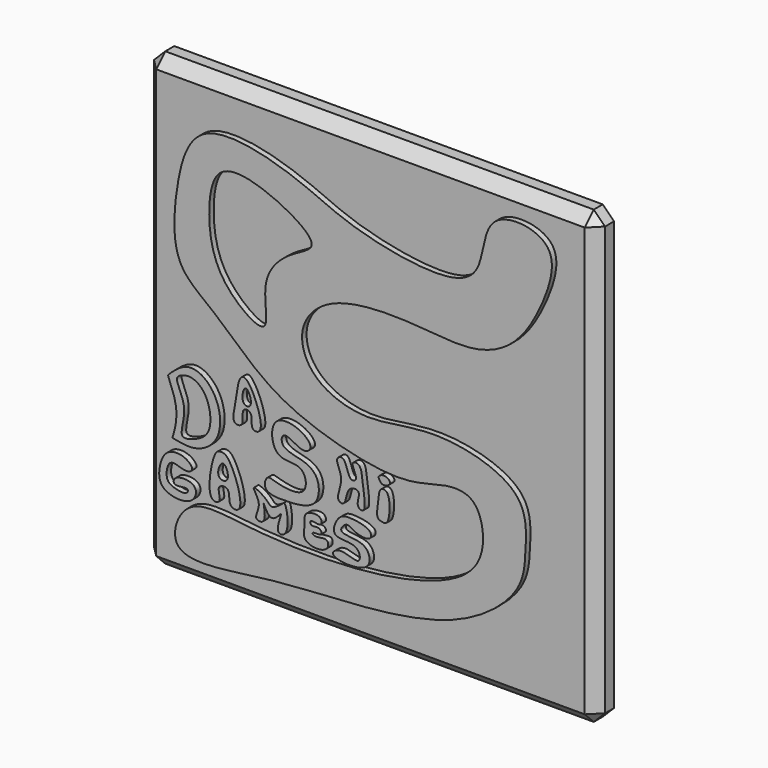
from build123d import *

# Parameters (mm, degrees)
F0_W     = 200
F0_H     = 200
F0_W_2   = 190
F0_H_2   = 190
F1_DEPTH = 10
F2_SIZE  = 5
F4_DEPTH = 2.5


with BuildPart() as f1:
    # F0 (on Front) → F1 (new body)
    with BuildSketch(Plane.XZ):
        Rectangle(F0_W, F0_H)
        Rectangle(F0_W_2, F0_H_2, mode=Mode.SUBTRACT)
        Rectangle(F0_W_2, F0_H_2)
    extrude(amount=F1_DEPTH)

    # F2
    f2_edges = [f1.edges().sort_by_distance(p)[0] for p in [
        (-100, -10, 0),
        (0, -10, 100),
        (100, -10, 0),
        (0, -10, -100),
        (-100, -5, -100),
        (100, -5, -100),
        (100, -5, 100),
        (-100, -5, 100),
    ]]
    chamfer(f2_edges, length=F2_SIZE)

    # F3 (on face) → F4 (join)
    with BuildSketch(Plane.XZ.offset(10)):
        with BuildLine():
            add(Edge.make_bspline(
                [(-87.7614319324, -21.0537072271), (-87.825366867, -21.6199004584), (-81.8395387198, -32.7272155676), (-85.5848640599, -44.1312301135), (-85.9333076917, -44.9312667765), (-84.7148641289, -44.9653135893), (-75.1910001989, -47.4703439431), (-63.0247091743, -38.8020907721), (-65.2624117914, -20.3607639388), (-78.6053829774, -11.6061829799), (-87.0265766494, -20.2614177394), (-87.6610659296, -20.8712068369), (-87.6987156854, -20.9829346897), (-87.7557195629, -21.0031197822), (-87.7614319324, -21.0537072271)],
                knots=[0, 0, 0, 0, 0.1274675783, 0.2544059, 0.2779604132, 0.3095727952, 0.4194339848, 0.5519522976, 0.7007810112, 0.8333677429, 0.9487729847, 0.9784777135, 0.9886112042, 1, 1, 1, 1], degree=3))
        make_face()
        with BuildLine():
            add(Edge.make_bspline(
                [(-83.79676193, -21.4331950992), (-83.6684224556, -23.4253166092), (-78.1953647391, -31.195664231), (-83.9735066611, -44.4720690845), (-75.5211441931, -42.3273411788), (-67.8338266372, -37.9808761763), (-69.4166090973, -23.2386340273), (-77.0527862533, -17.5861479519), (-82.6396759257, -19.2203775392), (-83.8555774438, -20.5202441093), (-83.79676193, -21.4331950992)],
                knots=[0, 0, 0, 0, 0.1486179544, 0.2987722885, 0.4020002725, 0.5330267689, 0.6967386952, 0.8296032871, 0.9318912486, 1, 1, 1, 1], degree=3))
        make_face(mode=Mode.SUBTRACT)
        with BuildLine():
            add(Edge.make_bspline(
                [(-58.199133724, -29.8489369452), (-59.5593396713, -28.4521991908), (-57.143484187, -20.4384711009), (-56.7517995236, -11.6466704735), (-51.8015387198, -9.4188366419), (-43.3266446496, -30.7663964727), (-51.8680821117, -30.5545542125), (-49.566134085, -23.2141041072), (-55.8885223475, -22.6479617351), (-53.422988153, -30.4747553293), (-57.4013549336, -30.6681421239), (-58.199133724, -29.8489369452)],
                knots=[0, 0, 0, 0, 0.1366215896, 0.272630827, 0.3466623213, 0.5423522852, 0.6237996356, 0.7315657708, 0.8104871317, 0.9198696295, 1, 1, 1, 1], degree=3))
        make_face()
        with BuildLine():
            add(Edge.make_bspline(
                [(-54.2397648096, -20.9697652608), (-53.4626981955, -22.147776335), (-49.2688011133, -21.8613744597), (-53.7237021536, -10.7816867402), (-55.3365601206, -19.3070544982), (-54.2397648096, -20.9697652608)],
                knots=[0, 0, 0, 0, 0.2607792242, 0.6319216074, 1, 1, 1, 1], degree=3))
        make_face(mode=Mode.SUBTRACT)
        with BuildLine():
            add(Edge.make_bspline(
                [(-28.0233919621, -30.7851210237), (-26.1712514428, -31.056990298), (-22.7888205804, -28.6610829957), (-29.3225020472, -22.1895574744), (-43.1307127951, -20.806501756), (-41.2858215794, -39.6817735881), (-27.0816917314, -35.2878862445), (-25.1554480643, -50.419516874), (-40.4767809233, -47.3430968664), (-44.0121294885, -45.6120420154), (-46.2644313682, -53.0312190933), (-33.9570130578, -53.4487334928), (-20.9809644736, -51.8615581708), (-20.214524418, -39.5762787551), (-27.0347134532, -34.36148365), (-38.27581389, -33.5444471775), (-36.9096884637, -24.9695712614), (-30.7748103235, -30.381249878), (-28.0233919621, -30.7851210237)],
                knots=[0, 0, 0, 0, 0.0436275764, 0.1029954792, 0.1742410715, 0.2497515044, 0.320909976, 0.384119474, 0.4614634703, 0.5015157689, 0.5472301912, 0.6172278115, 0.6940123095, 0.760568132, 0.823188482, 0.8918653033, 0.9351897366, 1, 1, 1, 1], degree=3))
        make_face()
        with BuildLine():
            add(Edge.make_bspline(
                [(-12.6997567713, -29.2626786977), (-13.2587052462, -30.8364357648), (-8.9024048512, -36.3119608743), (-14.1408112845, -45.2150035694), (-8.552305813, -46.9246168636), (-9.0142808685, -38.2661094361), (-1.360625427, -38.078044797), (-5.0584550028, -44.8555516467), (0.5387553008, -47.2382138088), (-1.5803399109, -35.6653284247), (-1.9652312398, -27.7009110242), (-7.619524522, -28.2154286509), (-2.7982862253, -34.7523456896), (-7.9818272446, -36.541410088), (-8.8518954537, -26.7926691947), (-12.361121479, -28.3092282306), (-12.6997567713, -29.2626786977)],
                knots=[0, 0, 0, 0, 0.0859368209, 0.1790755251, 0.2288517422, 0.3111177758, 0.3746067004, 0.4482352669, 0.4989681736, 0.5979271266, 0.6863540927, 0.7360683906, 0.8121082493, 0.8606499513, 0.9479357369, 1, 1, 1, 1], degree=3))
        make_face()
        with BuildLine():
            add(Edge.make_bspline(
                [(5.4318304174, -39.8916490376), (5.1444085959, -42.4332071529), (4.2430060344, -46.9743824145), (7.3158321025, -47.444074076), (10.4965170085, -48.0417395906), (11.1872238426, -34.3907245409), (5.7436351006, -34.1597597154), (5.6874344181, -37.6314433956), (5.4318304174, -39.8916490376)],
                knots=[0, 0, 0, 0, 0.199652483, 0.315913112, 0.4295832431, 0.6918754953, 0.8224492031, 1, 1, 1, 1], degree=3))
        make_face()
        with BuildLine():
            add(Edge.make_bspline(
                [(6.3121393323, -31.885176897), (6.6650133551, -32.3588980948), (7.3528973302, -33.2934385123), (12.0873990584, -31.6962501206), (8.6316569008, -28.319671165), (4.8999083041, -30.0008583599), (5.9414845265, -31.3875856117), (6.3121393323, -31.885176897)],
                knots=[0, 0, 0, 0, 0.1595277996, 0.3906600755, 0.6122044764, 0.8324338383, 1, 1, 1, 1], degree=3))
        make_face()
        with BuildLine():
            add(Edge.make_bspline(
                [(-20.4151626676, -54.6906031668), (-21.7973301659, -53.5421990575), (-28.0258980206, -54.399360114), (-26.5313879097, -59.2196269463), (-29.2477881462, -67.1595570496), (-16.6479552712, -68.1209390786), (-16.2941260065, -60.8675018079), (-22.7638739303, -63.5675954209), (-24.4451188587, -60.9402273901), (-18.5819526126, -62.1152946619), (-20.6741579052, -58.0382280307), (-24.5411319121, -59.7975620674), (-25.1068750832, -56.2688278574), (-19.4557722471, -58.7733673811), (-19.4946861096, -55.4554012562), (-20.4151626676, -54.6906031668)],
                knots=[0, 0, 0, 0, 0.0966296457, 0.1760666212, 0.2755190731, 0.3924194103, 0.4671354236, 0.5586142265, 0.601487031, 0.677158372, 0.7358609328, 0.8085231958, 0.8560005038, 0.9356479415, 1, 1, 1, 1], degree=3))
        make_face()
        with BuildLine():
            add(Edge.make_bspline(
                [(-5.0536016934, -55.1206320524), (-2.9944234587, -56.0999515721), (2.1242651912, -57.0242562507), (2.9102603087, -51.8693935502), (-7.1582495972, -50.0871751341), (-12.4641940027, -50.9615368949), (-16.5526088087, -61.6942127811), (-3.1050978598, -58.6924184751), (-1.7957411156, -68.7949775391), (-11.1465762949, -62.8858228329), (-18.2615049442, -68.9130504822), (3.3717432602, -70.4264587104), (1.1154352929, -58.2200635568), (-7.1968751693, -58.2148211971), (-12.3151994564, -57.0086292464), (-8.4973222064, -52.4092922106), (-6.6466938841, -54.3629772497), (-5.0536016934, -55.1206320524)],
                knots=[0, 0, 0, 0, 0.0686811006, 0.1123417857, 0.1925412831, 0.2560235456, 0.3261269556, 0.4087750727, 0.4674372728, 0.5441354359, 0.5971665771, 0.6988040637, 0.7704294119, 0.8457543277, 0.8967675089, 0.946864568, 1, 1, 1, 1], degree=3))
        make_face()
        with BuildLine():
            add(Edge.make_bspline(
                [(-48.5533066094, -64.2018988729), (-49.2786488761, -63.0076020631), (-45.3287227709, -58.2036592627), (-52.5141678918, -50.5272969439), (-43.7135962891, -55.0111090446), (-42.1549755706, -58.6550294669), (-37.2407779426, -55.0462550529), (-35.4827120682, -53.0408474692), (-33.1901231657, -66.8912260865), (-41.2030035708, -67.5123265254), (-35.4190393371, -54.974743423), (-42.3972610943, -65.4633468977), (-46.6914977415, -52.9086141647), (-43.3212009824, -65.5846965335), (-48.0311400116, -65.0616611266), (-48.5533066094, -64.2018988729)],
                knots=[0, 0, 0, 0, 0.0848405406, 0.1671579058, 0.2495795549, 0.3135721457, 0.3905511386, 0.4280981047, 0.5420322583, 0.6039447143, 0.6947395112, 0.7711600666, 0.8514921914, 0.9389241487, 1, 1, 1, 1], degree=3))
        make_face()
        with BuildLine():
            add(Edge.make_bspline(
                [(-68.3279186487, -62.7706646919), (-67.3197421085, -64.0514746982), (-63.1927929698, -63.4018931912), (-67.052299195, -56.5185058491), (-59.580347003, -55.8030714061), (-61.7066657457, -63.6066388934), (-52.4825261661, -64.9109692014), (-60.0950918592, -43.2546686343), (-64.6626428375, -43.255715409), (-67.8227486214, -44.0331652459), (-70.6606480902, -59.8071130801), (-68.3279186487, -62.7706646919)],
                knots=[0, 0, 0, 0, 0.0810484721, 0.1832164519, 0.2687490479, 0.3765347937, 0.4627302784, 0.6549391089, 0.7395819849, 0.812469196, 1, 1, 1, 1], degree=3))
        make_face()
        with BuildLine():
            add(Edge.make_bspline(
                [(-65.2498304844, -53.0961118639), (-64.5305167537, -54.5035860455), (-59.5107581504, -54.7682348828), (-63.2360227568, -43.6617361602), (-66.1541075635, -51.3267216969), (-65.2498304844, -53.0961118639)],
                knots=[0, 0, 0, 0, 0.2833399368, 0.6438024195, 1, 1, 1, 1], degree=3))
        make_face(mode=Mode.SUBTRACT)
        with BuildLine():
            add(Edge.make_bspline(
                [(-80.0184980035, -55.7330660522), (-78.5102524717, -55.8498411855), (-75.8353788961, -54.5917705515), (-79.9031276719, -50.0366974323), (-88.6586867378, -49.5532662217), (-92.0646795401, -58.0986895638), (-91.6720303039, -67.547184484), (-76.4973524524, -69.3057400291), (-73.7425011892, -58.8531565777), (-85.3402010781, -58.681202116), (-85.583862337, -64.0558372443), (-78.5176433561, -61.4884822483), (-79.1865589987, -65.4817229587), (-86.5784561304, -64.0515824274), (-88.9884660324, -61.136826993), (-87.551894747, -52.4251638545), (-82.1824824153, -55.5655206739), (-80.0184980035, -55.7330660522)],
                knots=[0, 0, 0, 0, 0.0498776126, 0.1083952715, 0.1852313545, 0.2648962519, 0.3431937996, 0.4395203014, 0.5093989183, 0.5899815205, 0.6338791724, 0.6985475819, 0.7338631971, 0.8048732427, 0.8595092188, 0.9284371318, 1, 1, 1, 1], degree=3))
        make_face()
        with BuildLine():
            add(Edge.make_bspline(
                [(-83.3200439811, -86.1200466752), (-78.8514191593, -91.8190670887), (-44.2680393443, -85.2867500208), (-7.0080667015, -84.3437458241), (42.0083752562, -78.6801584487), (69.9987363365, -55.3037985902), (70.716573959, -37.4972575096), (72.0421103774, -13.3179088572), (29.7155388483, -2.2010284105), (1.3701906549, -11.6671744085), (-24.4866984286, -2.7685634379), (-31.4413117509, 17.0336296017), (-15.1430565962, 35.2288257701), (23.026125376, 34.8856611529), (46.2800133795, 31.467105355), (66.32037113, 39.1315604505), (79.3581384095, 60.7129989929), (87.0642421983, 88.3309634118), (51.2251365627, 91.9487920348), (52.9581995636, 62.76587747), (33.3421665533, 54.6997586792), (-8.7311145079, 63.1572643067), (-29.1102666737, 74.888813949), (-75.722936671, 87.0723080994), (-84.8067834276, 54.2853543431), (-86.3726640364, 23.3772995099), (-68.008512546, 11.5590717041), (-49.0492003256, -7.2035713384), (-26.6123473728, -20.5728293577), (15.45983874, -30.9824405512), (34.2545348457, -23.1644607397), (48.7019400185, -23.8625094353), (53.431984822, -39.0617288967), (48.3490284192, -57.8556586206), (8.1109933892, -71.0659651335), (-49.1603866134, -70.4206376955), (-80.5580937011, -63.7848267536), (-86.3687855855, -82.2318615329), (-83.3200439811, -86.1200466752)],
                knots=[0, 0, 0, 0, 0.031684707, 0.0667260596, 0.1041085877, 0.1348248478, 0.1567552766, 0.1805078464, 0.2133790683, 0.2434202007, 0.2697498543, 0.2918343421, 0.3159176891, 0.348657418, 0.3749455852, 0.3983734278, 0.4256425584, 0.450885816, 0.4763193815, 0.5014839517, 0.5239891138, 0.5582847923, 0.5863034454, 0.6199289751, 0.6480609655, 0.6770348775, 0.7008465706, 0.7281348324, 0.7561320853, 0.7908393775, 0.8149162136, 0.8332480302, 0.852876078, 0.8746126668, 0.908233252, 0.95005846, 0.9783829504, 1, 1, 1, 1], degree=3))
        make_face()
        with BuildLine():
            add(Edge.make_bspline(
                [(-45.323651284, 11.8059655651), (-42.8701470461, 13.5515841024), (-48.238803568, 30.9779383936), (-34.0771555697, 44.5509031058), (-17.3146651532, 50.8392273271), (-44.5566516281, 66.7970920309), (-67.404169902, 69.9820503079), (-70.7933740528, 46.2469350903), (-66.3872991715, 22.4756738894), (-47.9723017951, 9.9215044098), (-45.323651284, 11.8059655651)],
                knots=[0, 0, 0, 0, 0.1163258389, 0.2431983965, 0.336327231, 0.4770483402, 0.6049660237, 0.7279586929, 0.8744218625, 1, 1, 1, 1], degree=3))
        make_face(mode=Mode.SUBTRACT)
    extrude(amount=F4_DEPTH)


solid = f1.part
